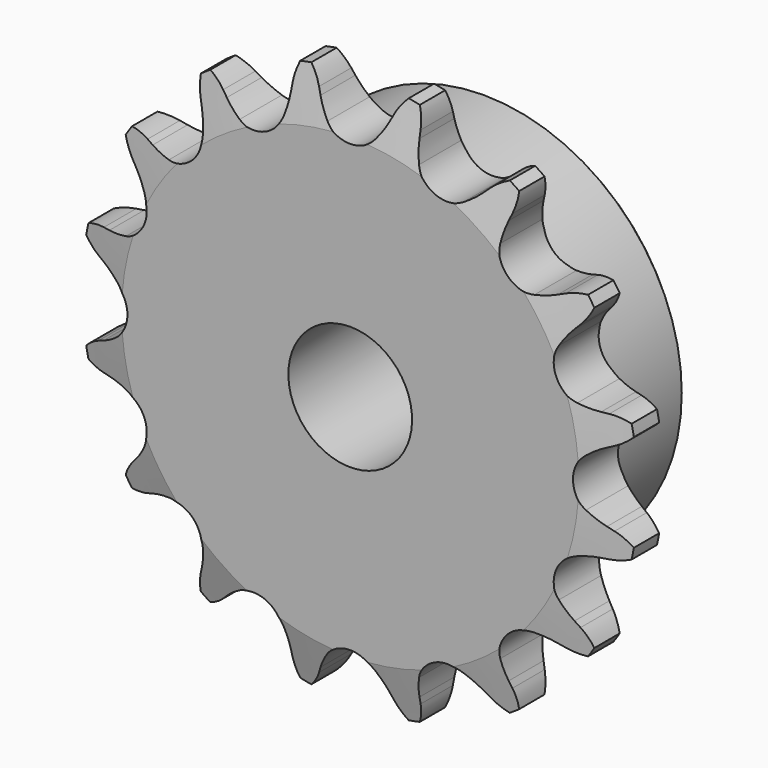
from build123d import *

# Parameters (mm, degrees)
F0_W     = 15.0114
F0_H     = 17.4625
F0_W_2   = 7.2136
F0_H_2   = 10.287
F2_R     = 1.5875
F3_SIZE  = 0.79375
F4_SIZE2 = 6.35
F4_SIZE  = 1.5748
F6_DEPTH = 22.226


with BuildPart() as f1:
    # F0 (on Right) → F1 (revolve)
    with BuildSketch(Plane.YZ):
        with Locations((14.7193, 16.66875)):
            Rectangle(F0_W, F0_H)
        with Locations((3.6068, 16.66875)):
            Rectangle(F0_W_2, F0_H)
        with Locations((3.6068, 30.5435)):
            Rectangle(F0_W_2, F0_H_2)
    revolve(axis=Axis((0, 11.1125, 0), (0, 1, 0)))

    # F2
    f2_edges = [f1.edges().sort_by_distance(p)[0] for p in [
        (0, 7.2136, -25.4),
    ]]
    fillet(f2_edges, radius=F2_R)

    # F3
    f3_edges = [f1.edges().sort_by_distance(p)[0] for p in [
        (0, 22.225, -25.4),
    ]]
    chamfer(f3_edges, length=F3_SIZE)

    # F4
    f4_edges = [f1.edges().sort_by_distance(p)[0] for p in [
        (0, 0, -35.687),
        (0, 7.2136, -35.687),
    ]]
    f4_side = f1.faces().sort_by_distance((0, 3.6068, -35.687))[0]
    chamfer(f4_edges, length=F4_SIZE, length2=F4_SIZE2, reference=f4_side)

    # F5 (on Front) → F6 (intersect, through all)
    with BuildSketch(Plane.XZ):
        with BuildLine():
            Line((-4.4568878106, 32.3001493474), (-4.8164154778, 33.0982711732))
            ThreePointArc((-4.8164154778, 33.0982711732), (-5.7824590494, 34.6345413147), (-7.1308367855, 35.8491373836))
            ThreePointArc((-7.1308367855, 35.8491373836), (-7.9117695854, 34.2109951151), (-8.2163723379, 32.4219777052))
            Line((-8.2163723379, 32.4219777052), (-8.2431045912, 31.5470240041))
            ThreePointArc((-8.2431045912, 31.5470240041), (-8.3658592885, 30.2423390761), (-8.6522824488, 28.963576686))
            ThreePointArc((-8.6522824488, 28.963576686), (-10.9400391594, 26.4115909116), (-14.3622538898, 26.5984290744))
            ThreePointArc((-14.3622538898, 26.5984290744), (-15.4690072063, 27.300118873), (-16.4783594451, 28.135869754))
            Line((-16.4783594451, 28.135869754), (-17.115947698, 28.7356528917))
            ThreePointArc((-17.115947698, 28.7356528917), (-18.596360712, 29.7852925621), (-20.3069050971, 30.3914311902))
            ThreePointArc((-20.3069050971, 30.3914311902), (-20.4015030212, 28.5791350327), (-19.9982919468, 26.8097320375))
            Line((-19.9982919468, 26.8097320375), (-19.688159043, 25.9911502307))
            ThreePointArc((-19.688159043, 25.9911502307), (-19.3022882889, 24.7388023405), (-19.0775476037, 23.4477705432))
            ThreePointArc((-19.0775476037, 23.4477705432), (-20.2145565285, 20.2145565285), (-23.4477705432, 19.0775476037))
            ThreePointArc((-23.4477705432, 19.0775476037), (-24.7388023405, 19.3022882889), (-25.9911502307, 19.688159043))
            Line((-25.9911502307, 19.688159043), (-26.8097320375, 19.9982919468))
            ThreePointArc((-26.8097320375, 19.9982919468), (-28.5791350327, 20.4015030212), (-30.3914311902, 20.3069050971))
            ThreePointArc((-30.3914311902, 20.3069050971), (-29.7852925621, 18.596360712), (-28.7356528917, 17.115947698))
            Line((-28.7356528917, 17.115947698), (-28.135869754, 16.4783594451))
            ThreePointArc((-28.135869754, 16.4783594451), (-27.300118873, 15.4690072063), (-26.5984290744, 14.3622538898))
            ThreePointArc((-26.5984290744, 14.3622538898), (-26.4115909116, 10.9400391594), (-28.963576686, 8.6522824488))
            ThreePointArc((-28.963576686, 8.6522824488), (-30.2423390761, 8.3658592885), (-31.5470240041, 8.2431045912))
            Line((-31.5470240041, 8.2431045912), (-32.4219777052, 8.2163723379))
            ThreePointArc((-32.4219777052, 8.2163723379), (-34.2109951151, 7.9117695854), (-35.8491373836, 7.1308367855))
            ThreePointArc((-35.8491373836, 7.1308367855), (-34.6345413147, 5.7824590494), (-33.0982711732, 4.8164154778))
            Line((-33.0982711732, 4.8164154778), (-32.3001493474, 4.4568878106))
            ThreePointArc((-32.3001493474, 4.4568878106), (-31.1417538349, 3.8441959519), (-30.0699408338, 3.0902142758))
            ThreePointArc((-30.0699408338, 3.0902142758), (-28.5877, 0), (-30.0699408338, -3.0902142758))
            ThreePointArc((-30.0699408338, -3.0902142758), (-31.1417538349, -3.8441959519), (-32.3001493474, -4.4568878106))
            Line((-32.3001493474, -4.4568878106), (-33.0982711732, -4.8164154778))
            ThreePointArc((-33.0982711732, -4.8164154778), (-34.6345413147, -5.7824590494), (-35.8491373836, -7.1308367855))
            ThreePointArc((-35.8491373836, -7.1308367855), (-34.2109951151, -7.9117695854), (-32.4219777052, -8.2163723379))
            Line((-32.4219777052, -8.2163723379), (-31.5470240041, -8.2431045912))
            ThreePointArc((-31.5470240041, -8.2431045912), (-30.2423390761, -8.3658592885), (-28.963576686, -8.6522824488))
            ThreePointArc((-28.963576686, -8.6522824488), (-26.4115909116, -10.9400391594), (-26.5984290744, -14.3622538898))
            ThreePointArc((-26.5984290744, -14.3622538898), (-27.300118873, -15.4690072063), (-28.135869754, -16.4783594451))
            Line((-28.135869754, -16.4783594451), (-28.7356528917, -17.115947698))
            ThreePointArc((-28.7356528917, -17.115947698), (-29.7852925621, -18.596360712), (-30.3914311902, -20.3069050971))
            ThreePointArc((-30.3914311902, -20.3069050971), (-28.5791350327, -20.4015030212), (-26.8097320375, -19.9982919468))
            Line((-26.8097320375, -19.9982919468), (-25.9911502307, -19.688159043))
            ThreePointArc((-25.9911502307, -19.688159043), (-24.7388023405, -19.3022882889), (-23.4477705432, -19.0775476037))
            ThreePointArc((-23.4477705432, -19.0775476037), (-20.2145565285, -20.2145565285), (-19.0775476037, -23.4477705432))
            ThreePointArc((-19.0775476037, -23.4477705432), (-19.3022882889, -24.7388023405), (-19.688159043, -25.9911502307))
            Line((-19.688159043, -25.9911502307), (-19.9982919468, -26.8097320375))
            ThreePointArc((-19.9982919468, -26.8097320375), (-20.4015030212, -28.5791350327), (-20.3069050971, -30.3914311902))
            ThreePointArc((-20.3069050971, -30.3914311902), (-18.596360712, -29.7852925621), (-17.115947698, -28.7356528917))
            Line((-17.115947698, -28.7356528917), (-16.4783594451, -28.135869754))
            ThreePointArc((-16.4783594451, -28.135869754), (-15.4690072063, -27.300118873), (-14.3622538898, -26.5984290744))
            ThreePointArc((-14.3622538898, -26.5984290744), (-10.9400391594, -26.4115909116), (-8.6522824488, -28.963576686))
            ThreePointArc((-8.6522824488, -28.963576686), (-8.3658592885, -30.2423390761), (-8.2431045912, -31.5470240041))
            Line((-8.2431045912, -31.5470240041), (-8.2163723379, -32.4219777052))
            ThreePointArc((-8.2163723379, -32.4219777052), (-7.9117695854, -34.2109951151), (-7.1308367855, -35.8491373836))
            ThreePointArc((-7.1308367855, -35.8491373836), (-5.7824590494, -34.6345413147), (-4.8164154778, -33.0982711732))
            Line((-4.8164154778, -33.0982711732), (-4.4568878106, -32.3001493474))
            ThreePointArc((-4.4568878106, -32.3001493474), (-3.8441959519, -31.1417538349), (-3.0902142758, -30.0699408338))
            ThreePointArc((-3.0902142758, -30.0699408338), (0, -28.5877), (3.0902142758, -30.0699408338))
            ThreePointArc((3.0902142758, -30.0699408338), (3.8441959519, -31.1417538349), (4.4568878106, -32.3001493474))
            Line((4.4568878106, -32.3001493474), (4.8164154778, -33.0982711732))
            ThreePointArc((4.8164154778, -33.0982711732), (5.7824590494, -34.6345413147), (7.1308367855, -35.8491373836))
            ThreePointArc((7.1308367855, -35.8491373836), (7.9117695854, -34.2109951151), (8.2163723379, -32.4219777052))
            Line((8.2163723379, -32.4219777052), (8.2431045912, -31.5470240041))
            ThreePointArc((8.2431045912, -31.5470240041), (8.3658592885, -30.2423390761), (8.6522824488, -28.963576686))
            ThreePointArc((8.6522824488, -28.963576686), (10.9400391594, -26.4115909116), (14.3622538898, -26.5984290744))
            ThreePointArc((14.3622538898, -26.5984290744), (15.4690072063, -27.300118873), (16.4783594451, -28.135869754))
            Line((16.4783594451, -28.135869754), (17.115947698, -28.7356528917))
            ThreePointArc((17.115947698, -28.7356528917), (18.596360712, -29.7852925621), (20.3069050971, -30.3914311902))
            ThreePointArc((20.3069050971, -30.3914311902), (20.4015030212, -28.5791350327), (19.9982919468, -26.8097320375))
            Line((19.9982919468, -26.8097320375), (19.688159043, -25.9911502307))
            ThreePointArc((19.688159043, -25.9911502307), (19.3022882889, -24.7388023405), (19.0775476037, -23.4477705432))
            ThreePointArc((19.0775476037, -23.4477705432), (20.2145565285, -20.2145565285), (23.4477705432, -19.0775476037))
            ThreePointArc((23.4477705432, -19.0775476037), (24.7388023405, -19.3022882889), (25.9911502307, -19.688159043))
            Line((25.9911502307, -19.688159043), (26.8097320375, -19.9982919468))
            ThreePointArc((26.8097320375, -19.9982919468), (28.5791350327, -20.4015030212), (30.3914311902, -20.3069050971))
            ThreePointArc((30.3914311902, -20.3069050971), (29.7852925621, -18.596360712), (28.7356528917, -17.115947698))
            Line((28.7356528917, -17.115947698), (28.135869754, -16.4783594451))
            ThreePointArc((28.135869754, -16.4783594451), (27.300118873, -15.4690072063), (26.5984290744, -14.3622538898))
            ThreePointArc((26.5984290744, -14.3622538898), (26.4115909116, -10.9400391594), (28.963576686, -8.6522824488))
            ThreePointArc((28.963576686, -8.6522824488), (30.2423390761, -8.3658592885), (31.5470240041, -8.2431045912))
            Line((31.5470240041, -8.2431045912), (32.4219777052, -8.2163723379))
            ThreePointArc((32.4219777052, -8.2163723379), (34.2109951151, -7.9117695854), (35.8491373836, -7.1308367855))
            ThreePointArc((35.8491373836, -7.1308367855), (34.6345413147, -5.7824590494), (33.0982711732, -4.8164154778))
            Line((33.0982711732, -4.8164154778), (32.3001493474, -4.4568878106))
            ThreePointArc((32.3001493474, -4.4568878106), (31.1417538349, -3.8441959519), (30.0699408338, -3.0902142758))
            ThreePointArc((30.0699408338, -3.0902142758), (28.5877, 0), (30.0699408338, 3.0902142758))
            ThreePointArc((30.0699408338, 3.0902142758), (31.1417538349, 3.8441959519), (32.3001493474, 4.4568878106))
            Line((32.3001493474, 4.4568878106), (33.0982711732, 4.8164154778))
            ThreePointArc((33.0982711732, 4.8164154778), (34.6345413147, 5.7824590494), (35.8491373836, 7.1308367855))
            ThreePointArc((35.8491373836, 7.1308367855), (34.2109951151, 7.9117695854), (32.4219777052, 8.2163723379))
            Line((32.4219777052, 8.2163723379), (31.5470240041, 8.2431045912))
            ThreePointArc((31.5470240041, 8.2431045912), (30.2423390761, 8.3658592885), (28.963576686, 8.6522824488))
            ThreePointArc((28.963576686, 8.6522824488), (26.4115909116, 10.9400391594), (26.5984290744, 14.3622538898))
            ThreePointArc((26.5984290744, 14.3622538898), (27.300118873, 15.4690072063), (28.135869754, 16.4783594451))
            Line((28.135869754, 16.4783594451), (28.7356528917, 17.115947698))
            ThreePointArc((28.7356528917, 17.115947698), (29.7852925621, 18.596360712), (30.3914311902, 20.3069050971))
            ThreePointArc((30.3914311902, 20.3069050971), (28.5791350327, 20.4015030212), (26.8097320375, 19.9982919468))
            Line((26.8097320375, 19.9982919468), (25.9911502307, 19.688159043))
            ThreePointArc((25.9911502307, 19.688159043), (24.7388023405, 19.3022882889), (23.4477705432, 19.0775476037))
            ThreePointArc((23.4477705432, 19.0775476037), (20.2145565285, 20.2145565285), (19.0775476037, 23.4477705432))
            ThreePointArc((19.0775476037, 23.4477705432), (19.3022882889, 24.7388023405), (19.688159043, 25.9911502307))
            Line((19.688159043, 25.9911502307), (19.9982919468, 26.8097320375))
            ThreePointArc((19.9982919468, 26.8097320375), (20.4015030212, 28.5791350327), (20.3069050971, 30.3914311902))
            ThreePointArc((20.3069050971, 30.3914311902), (18.596360712, 29.7852925621), (17.115947698, 28.7356528917))
            Line((17.115947698, 28.7356528917), (16.4783594451, 28.135869754))
            ThreePointArc((16.4783594451, 28.135869754), (15.4690072063, 27.300118873), (14.3622538898, 26.5984290744))
            ThreePointArc((14.3622538898, 26.5984290744), (10.9400391594, 26.4115909116), (8.6522824488, 28.963576686))
            ThreePointArc((8.6522824488, 28.963576686), (8.3658592885, 30.2423390761), (8.2431045912, 31.5470240041))
            Line((8.2431045912, 31.5470240041), (8.2163723379, 32.4219777052))
            ThreePointArc((8.2163723379, 32.4219777052), (7.9117695854, 34.2109951151), (7.1308367855, 35.8491373836))
            ThreePointArc((7.1308367855, 35.8491373836), (5.7824590494, 34.6345413147), (4.8164154778, 33.0982711732))
            Line((4.8164154778, 33.0982711732), (4.4568878106, 32.3001493474))
            ThreePointArc((4.4568878106, 32.3001493474), (3.8441959519, 31.1417538349), (3.0902142758, 30.0699408338))
            ThreePointArc((3.0902142758, 30.0699408338), (0, 28.5877), (-3.0902142758, 30.0699408338))
            ThreePointArc((-3.0902142758, 30.0699408338), (-3.8441959519, 31.1417538349), (-4.4568878106, 32.3001493474))
        make_face()
    extrude(amount=-F6_DEPTH, mode=Mode.INTERSECT)


solid = f1.part
